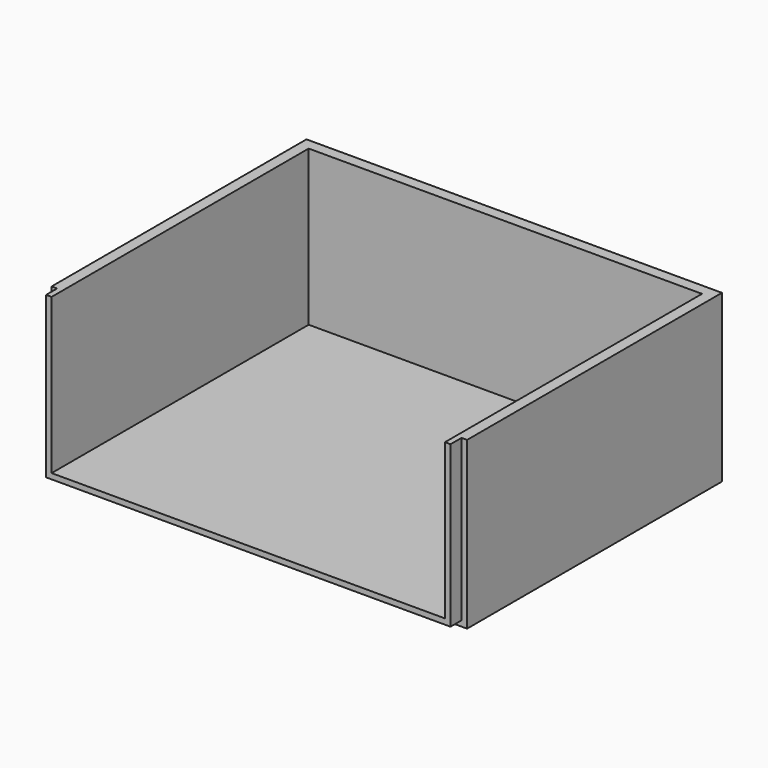
from build123d import *

# Parameters (mm, degrees)
F0_W     = 120
F0_H     = 60
F1_DEPTH = 150
F2_W     = 142
F2_H     = 116
F3_DEPTH = 56
F4_W     = 5
F4_H     = 60
F5_DEPTH = 2
F6_W     = 5
F6_H     = 60
F7_DEPTH = 2
F8_W     = 146
F8_H     = 5
F9_DEPTH = 2


with BuildPart() as f1:
    # F0 (on Right) → F1 (new body)
    with BuildSketch(Plane.YZ):
        with Locations((-60, 30)):
            Rectangle(F0_W, F0_H)
    extrude(amount=-F1_DEPTH)

    # F2 (on face) → F3 (cut)
    with BuildSketch(Plane.XY.offset(60)):
        with Locations((-75, -62)):
            Rectangle(F2_W, F2_H)
    extrude(amount=-F3_DEPTH, mode=Mode.SUBTRACT)

    # F4 (on face) → F5 (cut)
    with BuildSketch(Plane(origin=(-150, 0, 0), x_dir=(0, -1, 0), z_dir=(-1, 0, 0))):
        with Locations((117.5, 30)):
            Rectangle(F4_W, F4_H)
    extrude(amount=-F5_DEPTH, mode=Mode.SUBTRACT)

    # F6 (on face) → F7 (cut)
    with BuildSketch(Plane.YZ):
        with Locations((-117.5, 30)):
            Rectangle(F6_W, F6_H)
    extrude(amount=-F7_DEPTH, mode=Mode.SUBTRACT)

    # F8 (on face) → F9 (cut)
    with BuildSketch(Plane(origin=(0, 0, 0), x_dir=(1, 0, 0), z_dir=(0, 0, -1))):
        with Locations((-75, 117.5)):
            Rectangle(F8_W, F8_H)
    extrude(amount=-F9_DEPTH, mode=Mode.SUBTRACT)


solid = f1.part
